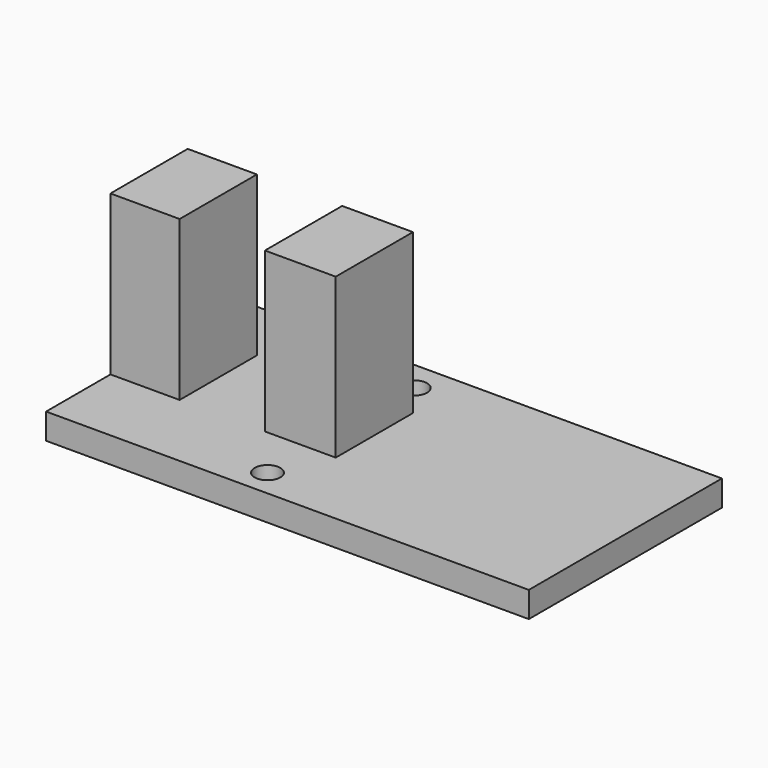
from build123d import *

# Parameters (mm, degrees)
CYLINDER078_R     = 0.8
CYLINDER078_DEPTH = 14.5
CYLINDER077_R     = 0.8
CYLINDER077_DEPTH = 14.5
BOX042_W          = 5.3
BOX042_H          = 8
BOX042_DEPTH      = 10
BOX041_W          = 14
BOX041_H          = 6
BOX041_DEPTH      = 10
BOX040_W          = 30
BOX040_H          = 15
BOX040_DEPTH      = 1.6


with BuildPart() as cylinder130:
    # Cylinder078 → Cylinder078 (new body)
    with BuildSketch(Plane(origin=(-43.6, -13.8, -9), x_dir=(1, 0, 0), z_dir=(0, 0, 1))):
        Circle(CYLINDER078_R)
    extrude(amount=CYLINDER078_DEPTH)


with BuildPart() as fusion109:
    # Cylinder077 → Cylinder077 (new body)
    with BuildSketch(Plane(origin=(-43.6, -2.4, -9), x_dir=(1, 0, 0), z_dir=(0, 0, 1))):
        Circle(CYLINDER077_R)
    extrude(amount=CYLINDER077_DEPTH)

    # Fusion109: union Cylinder130
    add(cylinder130.part)


with BuildPart() as cube040:
    # Box042 → Box042 (new body)
    with BuildSketch(Plane(origin=(-51.7, -11.5, -4.5), x_dir=(1, 0, 0), z_dir=(0, 0, 1))):
        with Locations((2.65, 4)):
            Rectangle(BOX042_W, BOX042_H)
    extrude(amount=BOX042_DEPTH)


with BuildPart() as cut045025:
    # Box041 → Box041 (new body)
    with BuildSketch(Plane(origin=(-56, -10.5, -4.5), x_dir=(1, 0, 0), z_dir=(0, 0, 1))):
        with Locations((7, 3)):
            Rectangle(BOX041_W, BOX041_H)
    extrude(amount=BOX041_DEPTH)

    # Cut045025: cut Cube040
    add(cube040.part, mode=Mode.SUBTRACT)


with BuildPart() as spoke_sensor_pcb001:
    # Box040 → Box040 (new body)
    with BuildSketch(Plane(origin=(-56, -15.5, -6), x_dir=(1, 0, 0), z_dir=(0, 0, 1))):
        with Locations((15, 7.5)):
            Rectangle(BOX040_W, BOX040_H)
    extrude(amount=BOX040_DEPTH)

    # Fusion108: union Cut045025
    add(cut045025.part)

    # Cut045026: cut Fusion109
    add(fusion109.part, mode=Mode.SUBTRACT)


solid = spoke_sensor_pcb001.part
